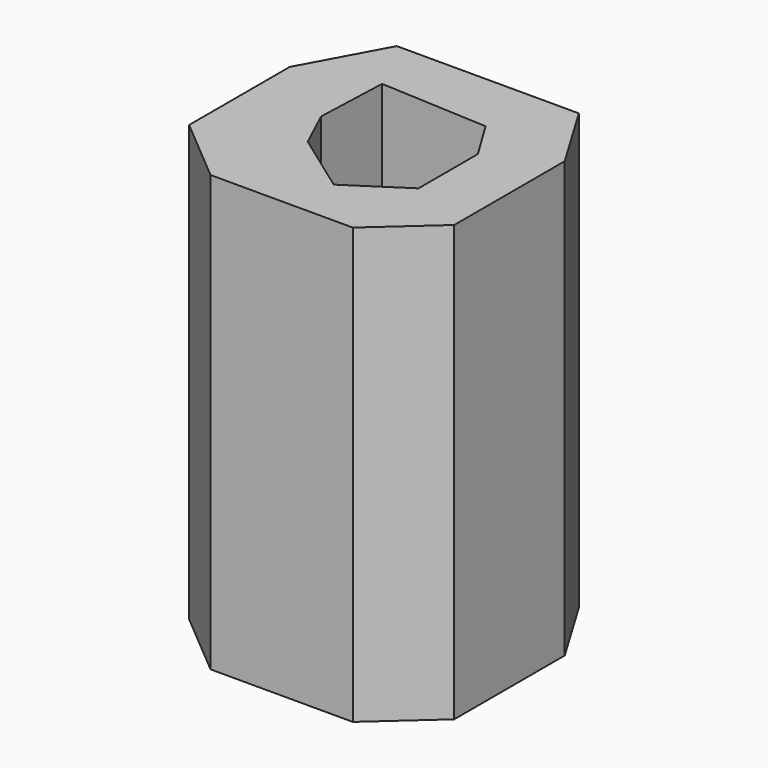
from build123d import *

# Parameters (mm, degrees)
F1_DEPTH = 177.8


with BuildPart() as f1:
    # F0 (on Top) → F1 (new body)
    with BuildSketch(Plane.XY):
        Polygon((36.636159, 42.110529), (-37.759107, 42.110529), (-55.445526, 9.545052), (-55.445526, -41.829787), (-28.49479, -64.569473), (29.617738, -64.569473), (53.761106, -42.952739), (53.761106, 13.475369), align=None)
        Polygon((-26.248895, -10.948737), (-25.125947, 18.809369), (18.949736, 16.563473), (29.056264, 0), (29.056264, -30.319581), (6.316579, -45.198631), (-18.669, -27.231473), align=None, mode=Mode.SUBTRACT)
    extrude(amount=F1_DEPTH)


solid = f1.part
